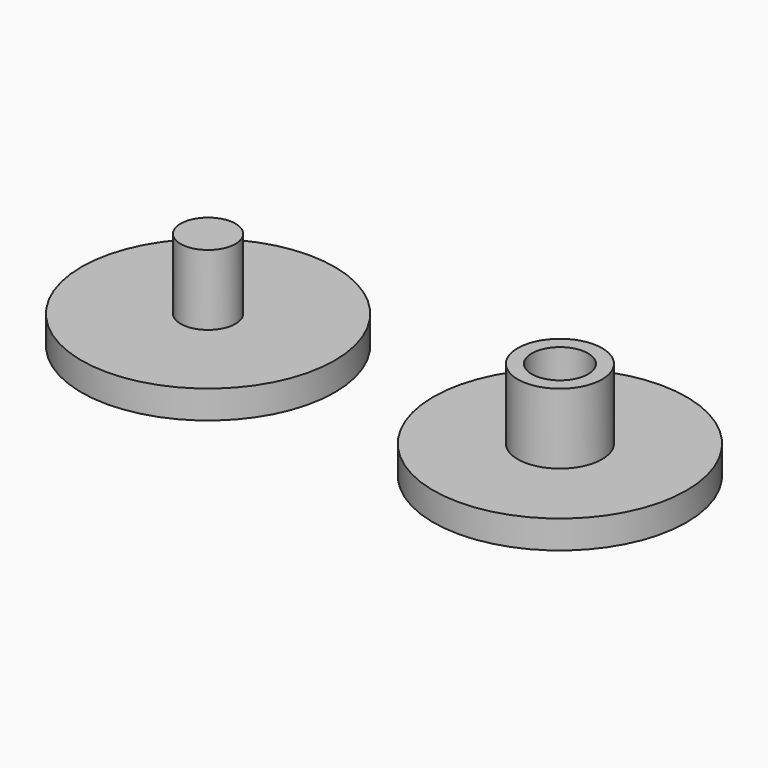
from build123d import *

# Parameters (mm, degrees)
F0_R     = 9
F1_DEPTH = 2
F2_R     = 3
F2_R_2   = 2
F3_DEPTH = 5
F4_R     = 1.95
F5_DEPTH = 5


with BuildPart() as f1:
    # F0 (on Top) → F1 (new body)
    with BuildSketch(Plane.XY):
        Circle(F0_R)
        with Locations((-25, 0)):
            Circle(F0_R)
    extrude(amount=F1_DEPTH)

    # F2 (on face) → F3 (join)
    with BuildSketch(Plane.XY.offset(2)):
        Circle(F2_R)
        Circle(F2_R_2, mode=Mode.SUBTRACT)
    extrude(amount=F3_DEPTH)

    # F4 (on face) → F5 (join)
    with BuildSketch(Plane.XY.offset(2)):
        with Locations((-25, 0)):
            Circle(F4_R)
    extrude(amount=F5_DEPTH)


solid = f1.part
